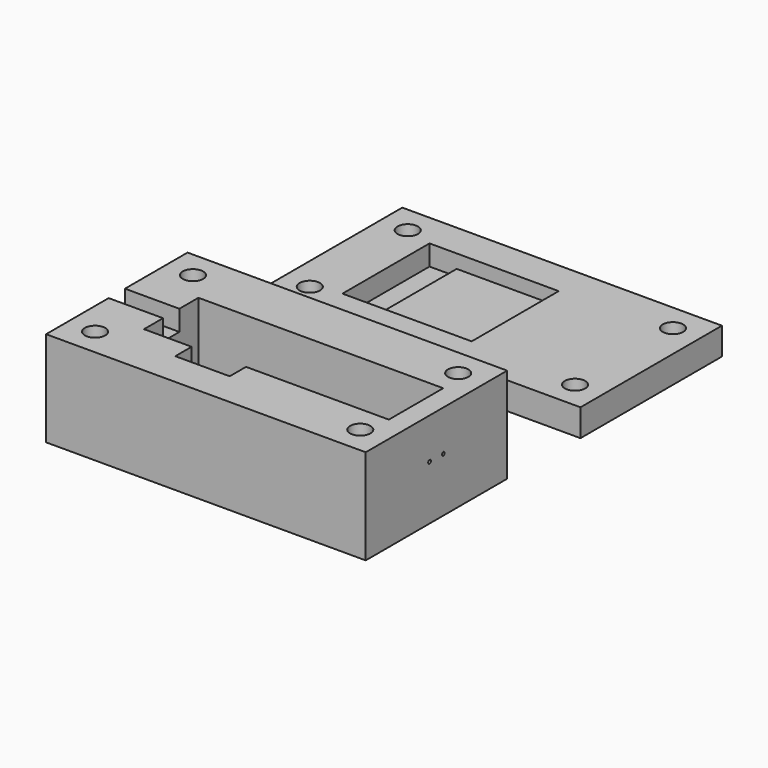
from build123d import *

# Parameters (mm, degrees)
F0_W      = 19
F0_H      = 16
F1_DEPTH  = 2
F0_W_2    = 20
F2_DEPTH  = 4
F3_W      = 47
F3_H      = 26
F4_DEPTH  = 14
F5_DEPTH  = 2
F6_R      = 0.25
F7_DEPTH  = 5
F8_W      = 1.5
F8_H      = 3
F9_DEPTH  = 8
F10_R     = 1.5
F11_DEPTH = 4
F12_R     = 1.5
F13_DEPTH = 25
F14_W     = 4
F14_H     = 16
F15_DEPTH = 1
F16_R     = 3
F17_DEPTH = 3
F19_DEPTH = 2.4


with BuildPart() as f1:
    # F0 (on Top) → F1 (new body)
    with BuildSketch(Plane.XY):
        with Locations((-0.84896, -0.01496)):
            Rectangle(F0_W, F0_H)
    extrude(amount=F1_DEPTH)

    # F0 (on Top) → F2 (join)
    with BuildSketch(Plane.XY):
        Polygon((-10.34896, 12.98504), (-10.34896, 7.98504), (8.65104, 7.98504), (28.65104, 7.98504), (28.65104, 12.98504), align=None)
        Polygon((-10.34896, -8.01496), (-10.34896, 7.98504), (-10.34896, 12.98504), (-18.34896, 12.98504), (-18.34896, -13.01496), (-10.34896, -13.01496), align=None)
        with Locations((18.65104, -0.01496)):
            Rectangle(F0_W_2, F0_H)
        Polygon((8.65104, -8.01496), (-10.34896, -8.01496), (-10.34896, -13.01496), (28.65104, -13.01496), (28.65104, -8.01496), align=None)
    extrude(amount=F2_DEPTH)

    # F10 (on face) → F11 (cut)
    with BuildSketch(Plane.XY.offset(4)):
        with Locations((-14.34896, 8.98504)):
            Circle(F10_R)
        with Locations((24.65104, 8.98504)):
            Circle(F10_R)
        with Locations((24.65104, -9.01496)):
            Circle(F10_R)
        with Locations((-14.34896, -9.01496)):
            Circle(F10_R)
    extrude(amount=-F11_DEPTH, mode=Mode.SUBTRACT)

    # F14 (on face) → F15 (cut)
    with BuildSketch(Plane.XY.offset(2)):
        with Locations((-8.34896, -0.01496)):
            Rectangle(F14_W, F14_H)
    extrude(amount=-F15_DEPTH, mode=Mode.SUBTRACT)

    # F18 (on face) → F19 (cut)
    with BuildSketch(Plane.XY):
        Polygon((23.15104, -6.416884), (21.65104, -9.01496), (23.15104, -11.613036), (26.15104, -11.613036), (27.65104, -9.01496), (26.15104, -6.416884), align=None)
        Polygon((-12.84896, -11.613036), (-11.34896, -9.01496), (-12.84896, -6.416884), (-15.84896, -6.416884), (-17.34896, -9.01496), (-15.84896, -11.613036), align=None)
        Polygon((-12.84896, 6.386964), (-11.34896, 8.98504), (-12.84896, 11.583116), (-15.84896, 11.583116), (-17.34896, 8.98504), (-15.84896, 6.386964), align=None)
        Polygon((23.15104, 11.583116), (21.65104, 8.98504), (23.15104, 6.386964), (26.15104, 6.386964), (27.65104, 8.98504), (26.15104, 11.583116), align=None)
    extrude(amount=F19_DEPTH, mode=Mode.SUBTRACT)


with BuildPart() as f4:
    # F3 (on Top) → F4 (new body)
    with BuildSketch(Plane.XY):
        with Locations((4.879999, -39.15)):
            Rectangle(F3_W, F3_H)
        Polygon((-10.620001, -44.15), (-10.620001, -34.15), (25.379999, -34.15), (25.379999, -44.15), (4.379999, -44.15), (4.379999, -47.15), (-3.620001, -47.15), (-3.620001, -44.15), align=None, mode=Mode.SUBTRACT)
    extrude(amount=F4_DEPTH)

    # F3 (on Top) → F5 (join)
    with BuildSketch(Plane.XY):
        Polygon((25.379999, -34.15), (-10.620001, -34.15), (-10.620001, -44.15), (-3.620001, -44.15), (-3.620001, -47.15), (4.379999, -47.15), (4.379999, -44.15), (25.379999, -44.15), align=None)
    extrude(amount=F5_DEPTH)

    # F6 (on face) → F7 (cut)
    with BuildSketch(Plane.YZ.offset(28.379999)):
        with Locations((-37.88, 8)):
            Circle(F6_R)
        with Locations((-40.42, 8)):
            Circle(F6_R)
    extrude(amount=-F7_DEPTH, mode=Mode.SUBTRACT)

    # F8 (on face) → F9 (cut)
    with BuildSketch(Plane(origin=(-18.620001, 0, 0), x_dir=(0, -1, 0), z_dir=(-1, 0, 0))):
        with Locations((38.4, 12.5)):
            Rectangle(F8_W, F8_H)
        with Locations((39.9, 12.5)):
            Rectangle(F8_W, F8_H)
    extrude(amount=-F9_DEPTH, mode=Mode.SUBTRACT)

    # F12 (on face) → F13 (cut)
    with BuildSketch(Plane.XY.offset(14)):
        with Locations((-14.620001, -30.15)):
            Circle(F12_R)
        with Locations((24.379999, -30.15)):
            Circle(F12_R)
        with Locations((24.379999, -48.15)):
            Circle(F12_R)
        with Locations((-14.620001, -48.15)):
            Circle(F12_R)
    extrude(amount=-F13_DEPTH, mode=Mode.SUBTRACT)

    # F16 (on face) → F17 (cut)
    with BuildSketch(Plane.XY):
        with Locations((24.379999, -30.15)):
            Circle(F16_R)
        with Locations((-14.620001, -30.15)):
            Circle(F16_R)
        with Locations((24.379999, -48.15)):
            Circle(F16_R)
        with Locations((-14.620001, -48.15)):
            Circle(F16_R)
    extrude(amount=F17_DEPTH, mode=Mode.SUBTRACT)


solid = Compound([f1.part, f4.part])
